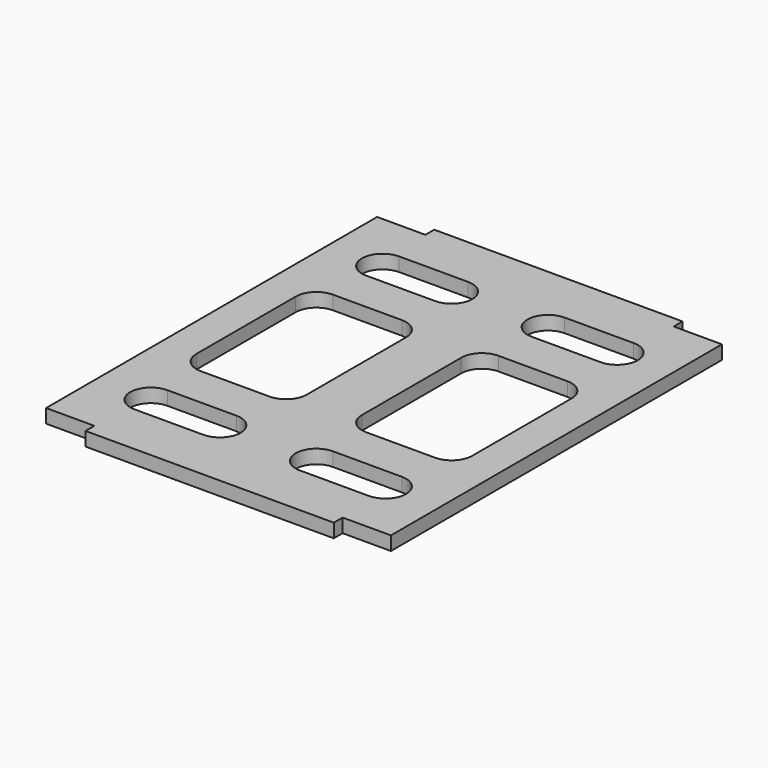
from build123d import *

# Parameters (mm, degrees)
F1_DEPTH = 1
F3_DEPTH = 25


with BuildPart() as f1:
    # F0 (on Top) → F1 (new body)
    with BuildSketch(Plane.XY):
        Polygon((-9, 15), (-12.5, 15), (-12.5, -15), (-9, -15), (-9, -15.8), (9, -15.8), (9, -15), (12.5, -15), (12.5, 15), (9, 15), (9, 15.8), (-9, 15.8), align=None)
    extrude(amount=F1_DEPTH)

    # F2 (on face) → F3 (cut)
    with BuildSketch(Plane.XY.offset(1)):
        with BuildLine():
            ThreePointArc((-8.5, 12), (-10, 10.5), (-8.5, 9))
            Line((-8.5, 9), (-3.5, 9))
            ThreePointArc((-3.5, 9), (-2, 10.5), (-3.5, 12))
            Line((-3.5, 12), (-8.5, 12))
        make_face()
        with BuildLine():
            Line((8.5, 12), (3.5, 12))
            ThreePointArc((3.5, 12), (2, 10.5), (3.5, 9))
            Line((3.5, 9), (8.5, 9))
            ThreePointArc((8.5, 9), (10, 10.5), (8.5, 12))
        make_face()
        with BuildLine():
            Line((3.5, -6), (8.5, -6))
            ThreePointArc((8.5, -6), (9.56066, -5.56066), (10, -4.5))
            Line((10, -4.5), (10, 4.5))
            ThreePointArc((10, 4.5), (9.56066, 5.56066), (8.5, 6))
            Line((8.5, 6), (3.5, 6))
            ThreePointArc((3.5, 6), (2.43934, 5.56066), (2, 4.5))
            Line((2, 4.5), (2, -4.5))
            ThreePointArc((2, -4.5), (2.43934, -5.56066), (3.5, -6))
        make_face()
        with BuildLine():
            Line((-3.5, 6), (-8.5, 6))
            ThreePointArc((-8.5, 6), (-9.56066, 5.56066), (-10, 4.5))
            Line((-10, 4.5), (-10, -4.5))
            ThreePointArc((-10, -4.5), (-9.56066, -5.56066), (-8.5, -6))
            Line((-8.5, -6), (-3.5, -6))
            ThreePointArc((-3.5, -6), (-2.43934, -5.56066), (-2, -4.5))
            Line((-2, -4.5), (-2, 4.5))
            ThreePointArc((-2, 4.5), (-2.43934, 5.56066), (-3.5, 6))
        make_face()
        with BuildLine():
            Line((-3.5, -9), (-8.5, -9))
            ThreePointArc((-8.5, -9), (-10, -10.5), (-8.5, -12))
            Line((-8.5, -12), (-3.5, -12))
            ThreePointArc((-3.5, -12), (-2, -10.5), (-3.5, -9))
        make_face()
        with BuildLine():
            ThreePointArc((8.5, -12), (10, -10.5), (8.5, -9))
            Line((8.5, -9), (3.5, -9))
            ThreePointArc((3.5, -9), (2, -10.5), (3.5, -12))
            Line((3.5, -12), (8.5, -12))
        make_face()
    extrude(amount=-F3_DEPTH, mode=Mode.SUBTRACT)


solid = f1.part
